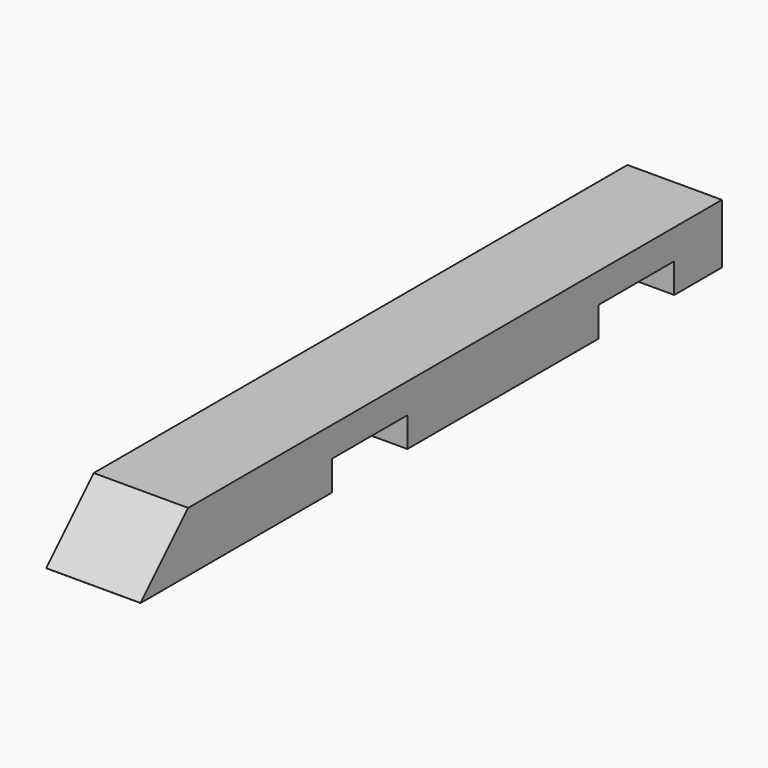
from build123d import *

# Parameters (mm, degrees)
SKETCH001_W     = 65
SKETCH001_H     = 41
PAD001_DEPTH    = 500
CHAMFER_SIZE    = 40.959
SKETCH004_W     = 20.5
SKETCH004_H     = 65
POCKET001_DEPTH = 65.001


with BuildPart() as part:
    # Sketch001 → Pad001 (new body)
    with BuildSketch(Plane.XZ.offset(-41)):
        with Locations((32.5, -20.5)):
            Rectangle(SKETCH001_W, SKETCH001_H)
    extrude(amount=PAD001_DEPTH)

    # Chamfer
    chamfer_edges = [part.edges().sort_by_distance(p)[0] for p in [
        (32.5, -459, 0),
    ]]
    chamfer(chamfer_edges, length=CHAMFER_SIZE)

    # Sketch004 (on Face5 of Chamfer) → Pocket001 (cut, through all)
    with BuildSketch(Plane(origin=(65, 0, 0), x_dir=(0, 0, 1), z_dir=(1, 0, 0))):
        with Locations((-30.75, 32.5)):
            Rectangle(SKETCH004_W, SKETCH004_H)
        with Locations((-30.75, 262)):
            Rectangle(SKETCH004_W, SKETCH004_H)
    extrude(amount=-POCKET001_DEPTH, mode=Mode.SUBTRACT)


with BuildPart() as part_1:
    # Clone005 placement: moved
    add(part.part.moved(Location((467.5, 0, 0))))


with BuildPart() as part_2:
    # Clone009 placement: moved
    add(part_1.part.moved(Location((467.5, 0, 0))))


solid = part_2.part
